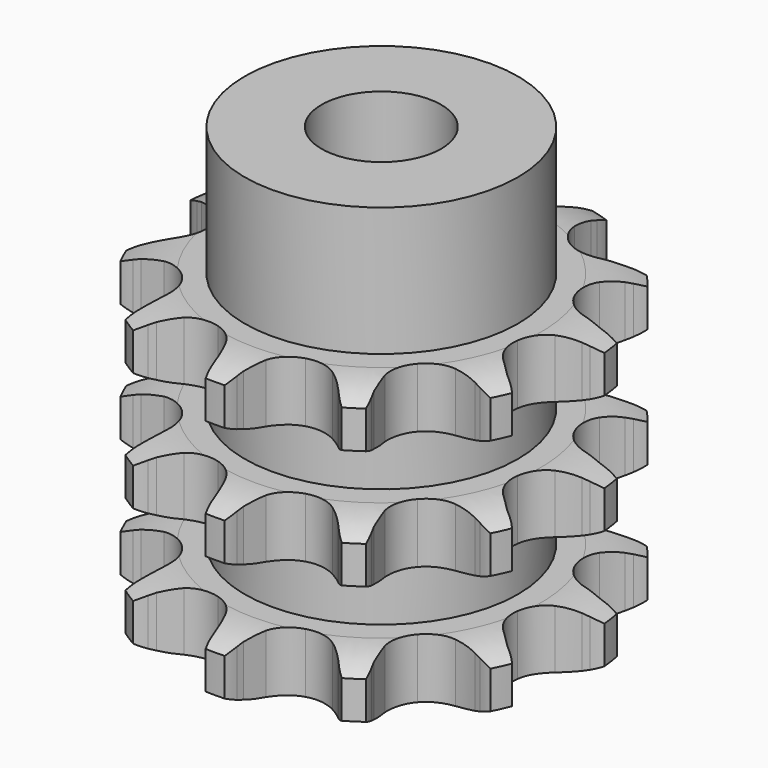
from build123d import *

# Parameters (mm, degrees)
PAD_DEPTH         = 34.9
SKETCH001_R       = 16
PAD001_DEPTH      = 50
SKETCH002_R       = 7
POCKET_DEPTH      = 0.001
POCKET_DEPTH_BACK = 50.001


with BuildPart() as part:
    # Sprocket → Pad (new body)
    with BuildSketch(Plane.XY):
        with BuildLine():
            ThreePointArc((-7.380823, 25.136776), (-6.051163, 23.969307), (-5.046327, 22.512843))
            Line((-5.046327, 22.512843), (-4.68124, 21.812874))
            ThreePointArc((-4.68124, 21.812874), (-4.040517, 20.736887), (-3.282898, 19.739747))
            ThreePointArc((-3.282898, 19.739747), (-1.807809, 18.621753), (0, 18.224731))
            ThreePointArc((0, 18.224731), (1.807809, 18.621753), (3.282898, 19.739747))
            ThreePointArc((3.282898, 19.739747), (4.040517, 20.736887), (4.68124, 21.812874))
            Line((4.68124, 21.812874), (5.046327, 22.512843))
            ThreePointArc((5.046327, 22.512843), (6.051163, 23.969307), (7.380823, 25.136776))
            ThreePointArc((7.380823, 25.136776), (7.868224, 23.43577), (7.926122, 21.66726))
            Line((7.926122, 21.66726), (7.85482, 20.881026))
            ThreePointArc((7.85482, 20.881026), (7.812108, 19.629448), (7.910363, 18.381001))
            ThreePointArc((7.910363, 18.381001), (8.546854, 16.642991), (9.853034, 15.331619))
            ThreePointArc((9.853034, 15.331619), (11.588505, 14.68824), (13.433863, 14.831263))
            Line((13.433863, 14.831263), (15.731039, 15.819288))
            ThreePointArc((15.731039, 15.819288), (16.070347, 16.021108), (16.416603, 16.210759))
            ThreePointArc((16.416603, 16.210759), (18.049348, 16.892759), (19.799111, 17.156027))
            ThreePointArc((19.799111, 17.156027), (19.289505, 15.461541), (18.382083, 13.942474))
            Line((18.382083, 13.942474), (17.897031, 13.319601))
            ThreePointArc((17.897031, 13.319601), (17.184444, 12.289798), (16.59214, 11.186417))
            ThreePointArc((16.59214, 11.186417), (16.187951, 9.380197), (16.577799, 7.570827))
            ThreePointArc((16.577799, 7.570827), (17.689933, 6.091315), (19.319671, 5.213958))
            Line((19.319671, 5.213958), (21.786345, 4.80319))
            ThreePointArc((21.786345, 4.80319), (22.180901, 4.789528), (22.574723, 4.761873))
            ThreePointArc((22.574723, 4.761873), (24.316992, 4.452879), (25.931321, 3.728361))
            ThreePointArc((25.931321, 3.728361), (24.586504, 2.578383), (23.001862, 1.791051))
            Line((23.001862, 1.791051), (22.25706, 1.529296))
            ThreePointArc((22.25706, 1.529296), (21.100841, 1.048224), (20.00603, 0.440224))
            ThreePointArc((20.00603, 0.440224), (18.689488, -0.860743), (18.03923, -2.59365))
            ThreePointArc((18.03923, -2.59365), (18.174932, -4.43956), (19.07162, -6.058742))
            Line((19.07162, -6.058742), (20.92464, -7.737887))
            ThreePointArc((20.92464, -7.737887), (21.249175, -7.962693), (21.565528, -8.198874))
            ThreePointArc((21.565528, -8.198874), (22.864164, -9.400759), (23.830519, -10.883033))
            ThreePointArc((23.830519, -10.883033), (22.077463, -11.123394), (20.318713, -10.929018))
            Line((20.318713, -10.929018), (19.55063, -10.74655))
            ThreePointArc((19.55063, -10.74655), (18.317869, -10.526154), (17.068147, -10.445736))
            ThreePointArc((17.068147, -10.445736), (15.257245, -10.828404), (13.773333, -11.934661))
            ThreePointArc((13.773333, -11.934661), (12.889518, -13.560906), (12.768464, -15.407834))
            Line((12.768464, -15.407834), (13.41951, -17.82224))
            ThreePointArc((13.41951, -17.82224), (13.570987, -18.186815), (13.70943, -18.556537))
            ThreePointArc((13.70943, -18.556537), (14.152125, -20.269722), (14.163696, -22.039142))
            ThreePointArc((14.163696, -22.039142), (12.558982, -21.293572), (11.184516, -20.179201))
            Line((11.184516, -20.179201), (10.637013, -19.610441))
            ThreePointArc((10.637013, -19.610441), (9.719104, -18.758552), (8.711247, -18.015249))
            ThreePointArc((8.711247, -18.015249), (6.980934, -17.358122), (5.1345, -17.486501))
            ThreePointArc((5.1345, -17.486501), (3.511774, -18.37676), (2.411412, -19.865048))
            Line((2.411412, -19.865048), (1.65378, -22.248157))
            ThreePointArc((1.65378, -22.248157), (1.584106, -22.636752), (1.500686, -23.02263))
            ThreePointArc((1.500686, -23.02263), (0.946886, -24.703191), (0, -26.197978))
            ThreePointArc((0, -26.197978), (-0.946886, -24.703191), (-1.500686, -23.02263))
            Line((-1.500686, -23.02263), (-1.65378, -22.248157))
            ThreePointArc((-1.65378, -22.248157), (-1.965409, -21.035242), (-2.411412, -19.865048))
            ThreePointArc((-2.411412, -19.865048), (-3.511774, -18.37676), (-5.1345, -17.486501))
            ThreePointArc((-5.1345, -17.486501), (-6.980934, -17.358122), (-8.711247, -18.015249))
            Line((-8.711247, -18.015249), (-10.637013, -19.610441))
            ThreePointArc((-10.637013, -19.610441), (-10.905717, -19.89968), (-11.184516, -20.179201))
            ThreePointArc((-11.184516, -20.179201), (-12.558982, -21.293572), (-14.163696, -22.039142))
            ThreePointArc((-14.163696, -22.039142), (-14.152125, -20.269722), (-13.70943, -18.556537))
            Line((-13.70943, -18.556537), (-13.41951, -17.82224))
            ThreePointArc((-13.41951, -17.82224), (-13.025918, -16.633392), (-12.768464, -15.407834))
            ThreePointArc((-12.768464, -15.407834), (-12.889518, -13.560906), (-13.773333, -11.934661))
            ThreePointArc((-13.773333, -11.934661), (-15.257245, -10.828404), (-17.068147, -10.445736))
            Line((-17.068147, -10.445736), (-19.55063, -10.74655))
            ThreePointArc((-19.55063, -10.74655), (-19.933052, -10.8446), (-20.318713, -10.929018))
            ThreePointArc((-20.318713, -10.929018), (-22.077463, -11.123394), (-23.830519, -10.883033))
            ThreePointArc((-23.830519, -10.883033), (-22.864164, -9.400759), (-21.565528, -8.198874))
            Line((-21.565528, -8.198874), (-20.92464, -7.737887))
            ThreePointArc((-20.92464, -7.737887), (-19.95079, -6.950557), (-19.07162, -6.058742))
            ThreePointArc((-19.07162, -6.058742), (-18.174932, -4.43956), (-18.03923, -2.59365))
            ThreePointArc((-18.03923, -2.59365), (-18.689488, -0.860743), (-20.00603, 0.440224))
            Line((-20.00603, 0.440224), (-22.25706, 1.529296))
            ThreePointArc((-22.25706, 1.529296), (-22.631784, 1.653563), (-23.001862, 1.791051))
            ThreePointArc((-23.001862, 1.791051), (-24.586504, 2.578383), (-25.931321, 3.728361))
            ThreePointArc((-25.931321, 3.728361), (-24.316992, 4.452879), (-22.574723, 4.761873))
            Line((-22.574723, 4.761873), (-21.786345, 4.80319))
            ThreePointArc((-21.786345, 4.80319), (-20.541427, 4.939031), (-19.319671, 5.213958))
            ThreePointArc((-19.319671, 5.213958), (-17.689933, 6.091315), (-16.577799, 7.570827))
            ThreePointArc((-16.577799, 7.570827), (-16.187951, 9.380197), (-16.59214, 11.186417))
            Line((-16.59214, 11.186417), (-17.897031, 13.319601))
            ThreePointArc((-17.897031, 13.319601), (-18.145085, 13.626732), (-18.382083, 13.942474))
            ThreePointArc((-18.382083, 13.942474), (-19.289505, 15.461541), (-19.799111, 17.156027))
            ThreePointArc((-19.799111, 17.156027), (-18.049348, 16.892759), (-16.416603, 16.210759))
            Line((-16.416603, 16.210759), (-15.731039, 15.819288))
            ThreePointArc((-15.731039, 15.819288), (-14.610307, 15.260511), (-13.433863, 14.831263))
            ThreePointArc((-13.433863, 14.831263), (-11.588505, 14.68824), (-9.853034, 15.331619))
            ThreePointArc((-9.853034, 15.331619), (-8.546854, 16.642991), (-7.910363, 18.381001))
            Line((-7.910363, 18.381001), (-7.85482, 20.881026))
            ThreePointArc((-7.85482, 20.881026), (-7.897449, 21.27351), (-7.926122, 21.66726))
            ThreePointArc((-7.926122, 21.66726), (-7.868224, 23.43577), (-7.380823, 25.136776))
        make_face()
    extrude(amount=PAD_DEPTH)

    # Sketch → Groove (revolve, cut)
    with BuildSketch(Plane.XZ):
        with BuildLine():
            ThreePointArc((18.683431, 0), (21.59032, 0.329167), (24.35, 1.3))
            Line((24.35, 1.3), (24.35, 5.7))
            ThreePointArc((24.35, 5.7), (21.59032, 6.670833), (18.683431, 7))
            Line((16, 7), (18.683431, 7))
            Line((16, 7), (16, 13.95))
            Line((16, 13.95), (18.683431, 13.95))
            ThreePointArc((18.683431, 13.95), (21.59032, 14.279167), (24.35, 15.25))
            Line((24.35, 19.65), (24.35, 15.25))
            ThreePointArc((24.35, 19.65), (21.59032, 20.620833), (18.683431, 20.95))
            Line((16, 20.95), (18.683431, 20.95))
            Line((16, 27.9), (16, 20.95))
            Line((18.683431, 27.9), (16, 27.9))
            ThreePointArc((18.683431, 27.9), (21.59032, 28.229167), (24.35, 29.2))
            Line((24.35, 29.2), (24.35, 33.6))
            ThreePointArc((24.35, 33.6), (21.59032, 34.570833), (18.683431, 34.9))
            Line((18.683431, 34.9), (34.35, 34.9))
            Line((34.35, 34.9), (34.35, 0))
            Line((18.683431, 0), (34.35, 0))
        make_face()
    revolve(axis=Axis((0, 0, 0), (0, 0, 1)), mode=Mode.SUBTRACT)

    # Sketch001 → Pad001 (join)
    with BuildSketch(Plane.XY):
        Circle(SKETCH001_R)
    extrude(amount=PAD001_DEPTH)

    # Sketch002 → Pocket (cut, two sides)
    with BuildSketch(Plane.XY) as pocket_sk:
        Circle(SKETCH002_R)
    extrude(amount=-POCKET_DEPTH, mode=Mode.SUBTRACT)
    extrude(pocket_sk.sketch, amount=POCKET_DEPTH_BACK, mode=Mode.SUBTRACT)


solid = part.part
